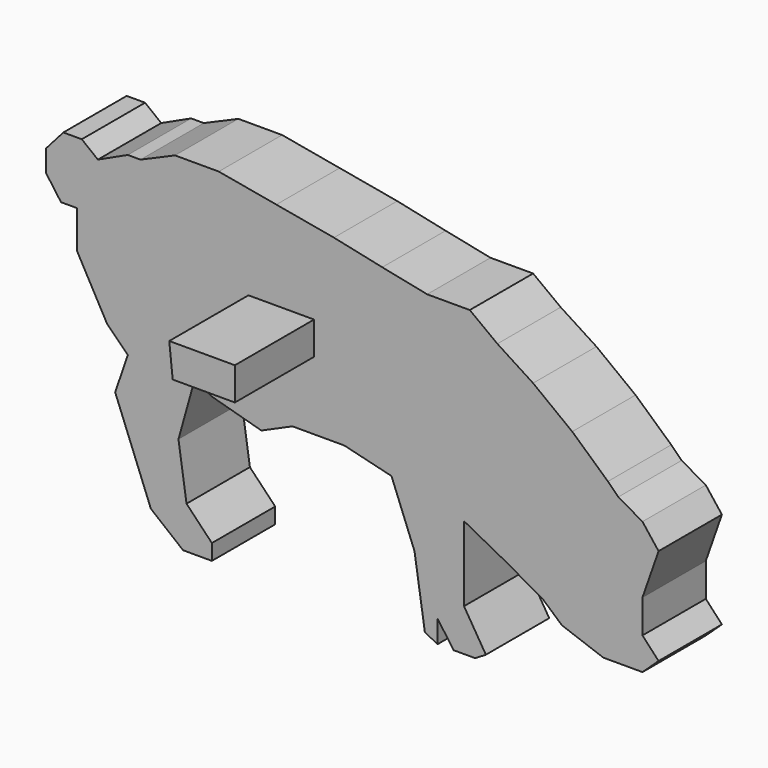
from build123d import *

# Parameters (mm, degrees)
F1_DEPTH = 10.16
F3_DEPTH = 12.7


with BuildPart() as f1:
    # F0 (on Front) → F1 (new body)
    with BuildSketch(Plane.XZ):
        Polygon((-59.9515732994, 65.7136424549), (-64.3842589727, 63.7928157218), (-66.0095770529, 63.7928157218), (-69.8512407636, 62.0197414525), (-71.9198283425, 63.6450558074), (-74.2839282995, 63.6450558074), (-76.5002720675, 61.1332043179), (-76.5002720675, 58.3258329995), (-74.5794397464, 55.6662215956), (-72.5108530989, 55.6662215956), (-72.5108530989, 50.790267355), (-68.6691903194, 43.8457227417), (-66.0095770529, 41.1861113377), (-67.6348969957, 36.457909561), (-66.0095770529, 32.320736266), (-63.0544532707, 24.7851706215), (-58.9172799757, 21.4374085669), (-55.2233733853, 21.4374085669), (-55.2233733853, 23.4553630568), (-58.4740114084, 26.8439068564), (-59.5083047321, 33.798298157), (-57.439716222, 41.1861113377), (-55.2233733853, 40.0040618249), (-48.869855391, 38.2309875556), (-44.8804382851, 40.0040618249), (-38.23140605, 40.0040618249), (-32.1734022966, 38.5264999338), (-29.2182747891, 30.990930564), (-27.8884690871, 22.2733116813), (-26.263151007, 21.4374085669), (-26.263151007, 24.3418983288), (-24.1945643594, 21.4374085669), (-21.4183011038, 21.4374085669), (-20.0573910644, 22.2733116813), (-22.8647586575, 26.8439068564), (-22.8647586575, 30.990930564), (-22.8647586575, 36.457909561), (-17.8410519531, 33.798298157), (-12.8173340729, 30.990930564), (-10.3054751327, 28.7745877274), (-4.9862597754, 26.8439068564), (-2.7699132135, 26.8439068564), (0.0374581048, 26.8439068564), (2.1060447523, 28.7745877274), (0.0374581048, 30.990930564), (0.0374581048, 35.2758600481), (2.1060447523, 41.1861113377), (0.0374581048, 43.8457227417), (-3.0654255917, 45.618797011), (-4.3952275684, 46.9486027129), (-8.975673156, 51.0857760079), (-13.9993835857, 54.92744065), (-18.5798291733, 57.8825681575), (-22.1259777119, 60.5421795614), (-24.933345305, 60.5421795614), (-27.5929604342, 60.5421795614), (-33.3554518094, 61.7242290743), (-39.561211752, 63.054031051), (-46.9490249326, 64.3838404782), (-54.3368362507, 65.7136424549), align=None)
    extrude(amount=F1_DEPTH)

    # F2 (on face) → F3 (join)
    with BuildSketch(Plane.XZ.offset(10.16)):
        Polygon((-42.1105250716, 52.970610559), (-50.5326315761, 52.970610559), (-50.0893630087, 48.7595573068), (-42.1105250716, 48.7595573068), align=None)
    extrude(amount=F3_DEPTH)


solid = f1.part
